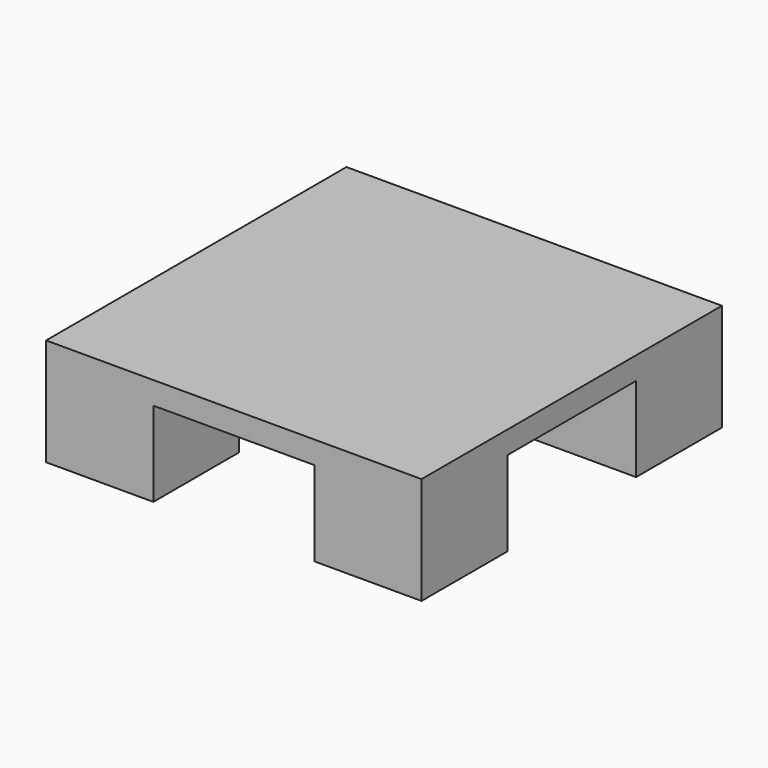
from build123d import *

# Parameters (mm, degrees)
F0_W     = 10
F0_H     = 10
F1_DEPTH = 10
F2_W     = 35
F2_H     = 35
F3_DEPTH = 2.1


with BuildPart() as f1:
    # F0 (on Top) → F1 (new body)
    with BuildSketch(Plane.XY):
        with Locations((10, 10)):
            Rectangle(F0_W, F0_H)
        with Locations((10, 35)):
            Rectangle(F0_W, F0_H)
        with Locations((35, 35)):
            Rectangle(F0_W, F0_H)
        with Locations((35, 10)):
            Rectangle(F0_W, F0_H)
    extrude(amount=F1_DEPTH)

    # F2 (on face) → F3 (join)
    with BuildSketch(Plane.XY.offset(10)):
        with Locations((22.5, 22.5)):
            Rectangle(F2_W, F2_H)
    extrude(amount=-F3_DEPTH)


solid = f1.part
